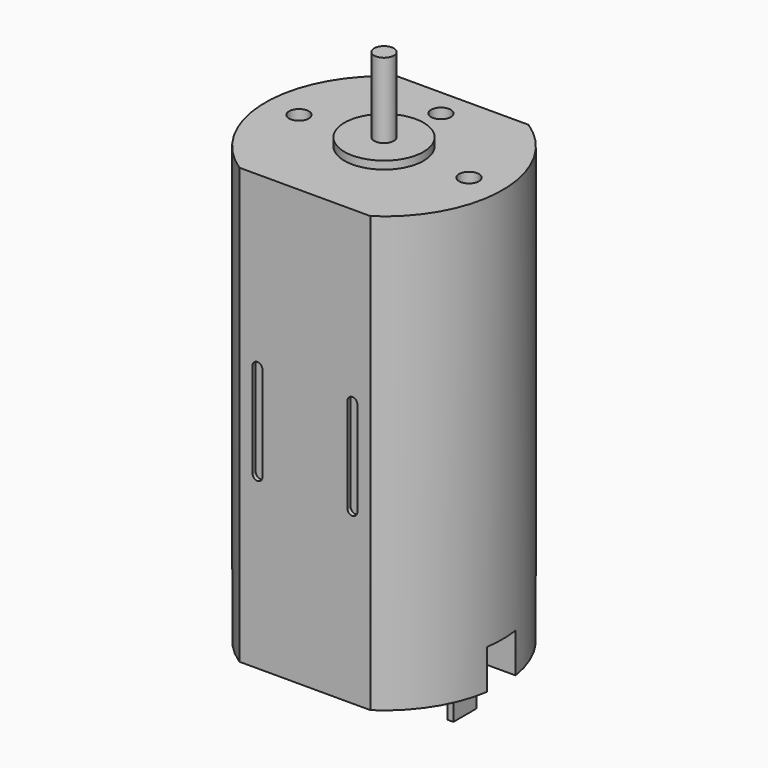
from build123d import *

# Parameters (mm, degrees)
PAD_DEPTH          = 11
SKETCH001_R        = 2
PAD001_DEPTH       = 0.4
SKETCH002_R        = 0.5
PAD002_DEPTH       = 3.8
SKETCH003_R        = 0.5
POCKET_DEPTH       = 3
SKETCH004_R        = 2.5
SKETCH004_R_2      = 1
PAD003_DEPTH       = 1.2
SKETCH005_W        = 3
SKETCH005_H        = 1.8
POCKET001_DEPTH    = 2
SKETCH006_W        = 0.3
SKETCH006_H        = 1.478048
PAD004_DEPTH       = 2
POCKET002_DEPTH    = 0.2
POLARPATTERN_COUNT = 2


with BuildPart() as part:
    # Sketch → Pad (new body, symmetric)
    with BuildSketch(Plane.XY):
        with BuildLine():
            ThreePointArc((-3.316625, 5), (-6, 0), (-3.316625, -5))
            Line((-3.316625, -5), (3.316625, -5))
            ThreePointArc((3.316625, -5), (6, 0), (3.316625, 5))
            Line((-3.316625, 5), (3.316625, 5))
        make_face()
    extrude(amount=PAD_DEPTH, both=True)

    # Sketch001 (on Face6 of Pad) → Pad001 (join)
    with BuildSketch(Plane.XY.offset(11)):
        Circle(SKETCH001_R)
    extrude(amount=PAD001_DEPTH)

    # Sketch002 (on Face8 of Pad001) → Pad002 (join)
    with BuildSketch(Plane.XY.offset(11.4)):
        Circle(SKETCH002_R)
    extrude(amount=PAD002_DEPTH)

    # Sketch003 (on Face5 of Pad002) → Pocket (cut)
    with BuildSketch(Plane.XY.offset(11)):
        with Locations((0, 3.6)):
            Circle(SKETCH003_R)
        with Locations((-4.3, 0)):
            Circle(SKETCH003_R)
        with Locations((4.3, 0)):
            Circle(SKETCH003_R)
    extrude(amount=-POCKET_DEPTH, mode=Mode.SUBTRACT)

    # Sketch004 (on Face4 of Pocket) → Pad003 (join)
    with BuildSketch(Plane(origin=(0, 0, -11), x_dir=(1, 0, 0), z_dir=(0, 0, -1))):
        Circle(SKETCH004_R)
        Circle(SKETCH004_R_2, mode=Mode.SUBTRACT)
    extrude(amount=PAD003_DEPTH)

    # Sketch005 (on Face4 of Pad003) → Pocket001 (cut)
    with BuildSketch(Plane(origin=(0, 0, -11), x_dir=(1, 0, 0), z_dir=(0, 0, -1))):
        with Locations((-6, 0)):
            Rectangle(SKETCH005_W, SKETCH005_H)
        with Locations((6, 0)):
            Rectangle(SKETCH005_W, SKETCH005_H)
    extrude(amount=-POCKET001_DEPTH, mode=Mode.SUBTRACT)

    # Sketch006 (on Face2 of Pocket001) → Pad004 (join)
    with BuildSketch(Plane(origin=(0, 0, -11), x_dir=(1, 0, 0), z_dir=(0, 0, -1))):
        with Locations((-3.95, 0)):
            Rectangle(SKETCH006_W, SKETCH006_H)
        with Locations((3.95, 0)):
            Rectangle(SKETCH006_W, SKETCH006_H)
    extrude(amount=PAD004_DEPTH)

    # Sketch007 (on Face6 of Pad004) → Pocket002 (cut)
    with BuildSketch(Plane.XZ.offset(5)):
        with BuildLine():
            ThreePointArc((-2.15, 2.4), (-2.4, 2.65), (-2.65, 2.4))
            Line((-2.65, 2.4), (-2.65, -2.4))
            ThreePointArc((-2.65, -2.4), (-2.4, -2.65), (-2.15, -2.4))
            Line((-2.15, 2.4), (-2.15, -2.4))
        make_face()
        with BuildLine():
            ThreePointArc((2.65, 2.4), (2.4, 2.65), (2.15, 2.4))
            Line((2.15, 2.4), (2.15, -2.4))
            ThreePointArc((2.15, -2.4), (2.4, -2.65), (2.65, -2.4))
            Line((2.65, 2.4), (2.65, -2.4))
        make_face()
    pocket002 = extrude(amount=-POCKET002_DEPTH, mode=Mode.SUBTRACT)

    # PolarPattern: Pocket002 ×2 about axis
    polarpattern_axis = Axis((0, 0, 0), (0, 0, 1))
    for i in range(1, POLARPATTERN_COUNT):
        add(pocket002.rotate(polarpattern_axis, i * 360 / POLARPATTERN_COUNT), mode=Mode.SUBTRACT)


solid = part.part
